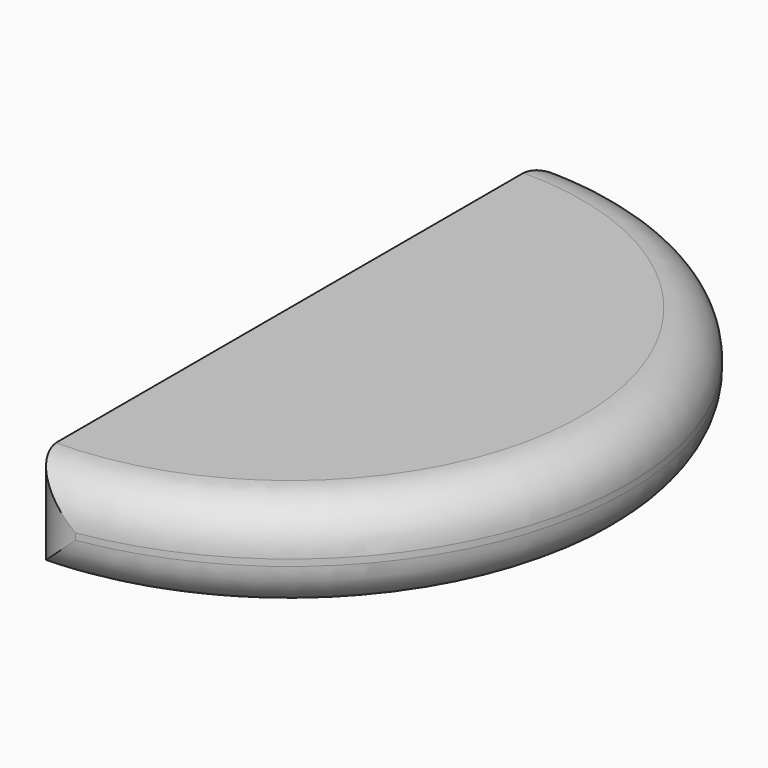
from build123d import *

# Parameters (mm, degrees)
F1_DEPTH = 190.5
F2_R     = 88.9


with BuildPart() as f1:
    # F0 (on Top) → F1 (new body)
    with BuildSketch(Plane.XY):
        with BuildLine():
            Line((0, 660.4), (0, 0))
            Line((0, 0), (0, -660.4))
            ThreePointArc((0, -660.4), (660.4, 0), (0, 660.4))
        make_face()
    extrude(amount=F1_DEPTH)

    # F2
    f2_edges = [f1.edges().sort_by_distance(p)[0] for p in [
        (0, -660.4, 95.25),
        (0, 660.4, 95.25),
        (660.4, 0, 0),
        (660.4, 0, 190.5),
    ]]
    fillet(f2_edges, radius=F2_R)


solid = f1.part
